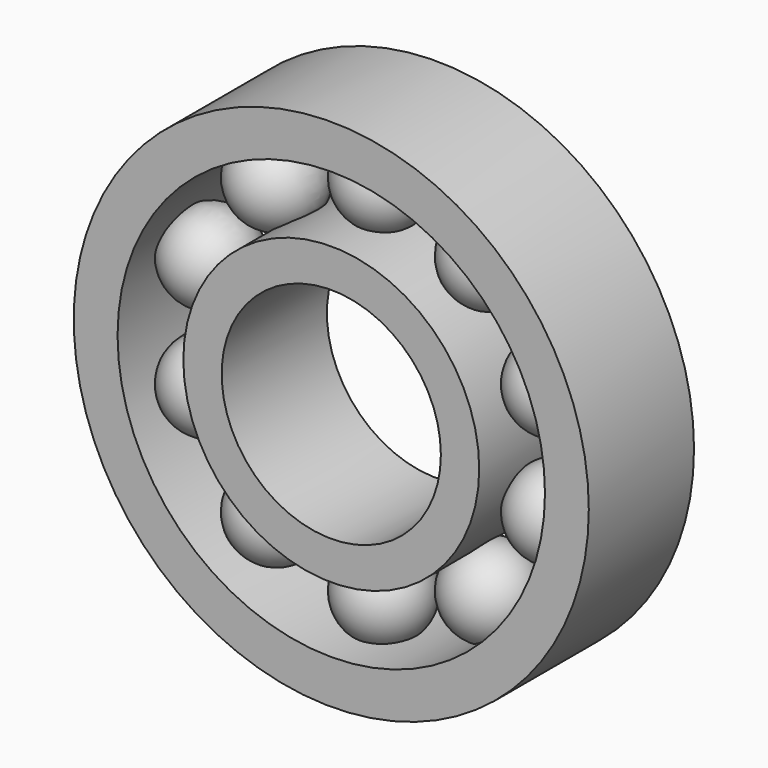
from build123d import *

# Parameters (mm, degrees)
F0_R     = 23.5
F0_R_2   = 19.5
F1_DEPTH = 12
F0_R_3   = 13.5
F0_R_4   = 10
F2_DEPTH = 12
F7_COUNT = 10


with BuildPart() as f1:
    # F0 (on Front) → F1 (new body)
    with BuildSketch(Plane.XZ):
        Circle(F0_R)
        Circle(F0_R_2, mode=Mode.SUBTRACT)
    extrude(amount=F1_DEPTH)


with BuildPart() as f2:
    # F0 (on Front) → F2 (new body)
    with BuildSketch(Plane.XZ):
        Circle(F0_R_3)
        Circle(F0_R_4, mode=Mode.SUBTRACT)
    extrude(amount=F2_DEPTH)


with BuildPart() as f5:
    # F4 (on offset) → F5 (revolve)
    with BuildSketch(Plane.XZ.offset(6)):
        with BuildLine():
            Line((0, 20.607765), (0, 12.607765))
            ThreePointArc((0, 12.607765), (4, 16.607765), (0, 20.607765))
        make_face()
    revolve(axis=Axis((0, -6, 16.607765), (0, 0, -1)))


with BuildPart() as f7_1:
    # F7: instance of F5
    add(f5.part.rotate(Axis((0, -0.456259, 0), (0, 1, 0)), 1 * 360 / F7_COUNT))


with BuildPart() as f7_2:
    # F7: instance of F5
    add(f5.part.rotate(Axis((0, -0.456259, 0), (0, 1, 0)), 2 * 360 / F7_COUNT))


with BuildPart() as f7_3:
    # F7: instance of F5
    add(f5.part.rotate(Axis((0, -0.456259, 0), (0, 1, 0)), 3 * 360 / F7_COUNT))


with BuildPart() as f7_4:
    # F7: instance of F5
    add(f5.part.rotate(Axis((0, -0.456259, 0), (0, 1, 0)), 4 * 360 / F7_COUNT))


with BuildPart() as f7_5:
    # F7: instance of F5
    add(f5.part.rotate(Axis((0, -0.456259, 0), (0, 1, 0)), 5 * 360 / F7_COUNT))


with BuildPart() as f7_6:
    # F7: instance of F5
    add(f5.part.rotate(Axis((0, -0.456259, 0), (0, 1, 0)), 6 * 360 / F7_COUNT))


with BuildPart() as f7_7:
    # F7: instance of F5
    add(f5.part.rotate(Axis((0, -0.456259, 0), (0, 1, 0)), 7 * 360 / F7_COUNT))


with BuildPart() as f7_8:
    # F7: instance of F5
    add(f5.part.rotate(Axis((0, -0.456259, 0), (0, 1, 0)), 8 * 360 / F7_COUNT))


with BuildPart() as f7_9:
    # F7: instance of F5
    add(f5.part.rotate(Axis((0, -0.456259, 0), (0, 1, 0)), 9 * 360 / F7_COUNT))


solid = Compound([f1.part, f2.part, f5.part, f7_1.part, f7_2.part, f7_3.part, f7_4.part, f7_5.part, f7_6.part, f7_7.part, f7_8.part, f7_9.part])
